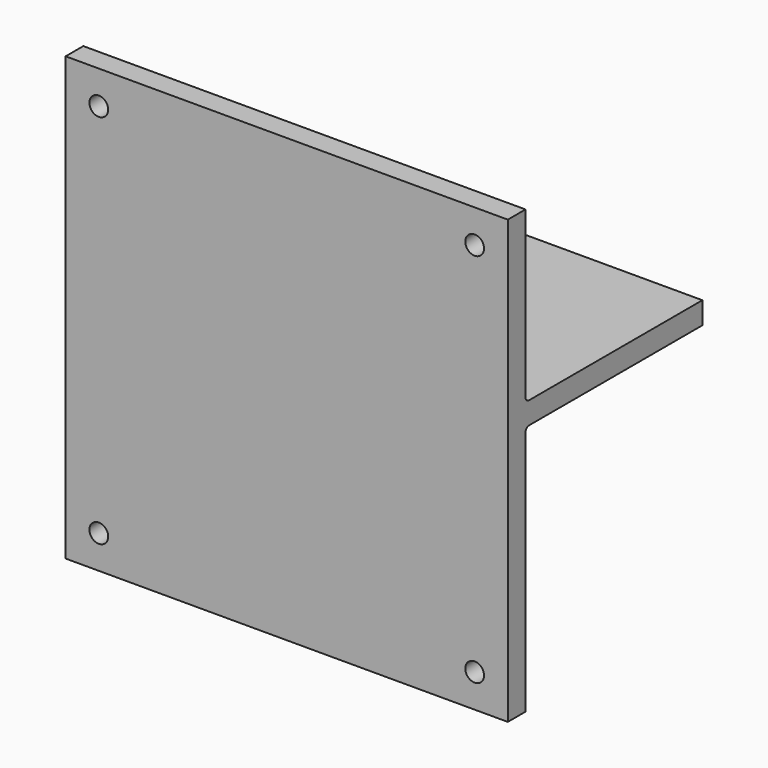
from build123d import *

# Parameters (mm, degrees)
F0_W     = 200
F0_H     = 200
F1_DEPTH = 110
F2_W     = 100
F2_H     = 76.8
F2_H_2   = 113.2
F3_DEPTH = 200
F4_W     = 10
F4_H     = 70
F5_DEPTH = 100
F7_DEPTH = 200
F8_R     = 4.25
F9_DEPTH = 10
F10_R    = 2


with BuildPart() as f1:
    # F0 (on Front) → F1 (new body)
    with BuildSketch(Plane.XZ):
        Rectangle(F0_W, F0_H)
    extrude(amount=F1_DEPTH)

    # F2 (on face) → F3 (cut)
    with BuildSketch(Plane.YZ.offset(100)):
        with Locations((-50, 61.6)):
            Rectangle(F2_W, F2_H)
        with Locations((-50, -43.4)):
            Rectangle(F2_W, F2_H_2)
    extrude(amount=-F3_DEPTH, mode=Mode.SUBTRACT)

    # F4 (on face) → F5 (join)
    with BuildSketch(Plane(origin=(0, -100, 0), x_dir=(-1, 0, 0), z_dir=(0, 1, 0))):
        with Locations((0, -21.8)):
            Rectangle(F4_W, F4_H)
    extrude(amount=F5_DEPTH)

    # F6 (on face) → F7 (cut)
    with BuildSketch(Plane.YZ.offset(5)):
        Polygon((0, 13.2), (-30, 13.2), (-100, -56.8), (0, -56.8), align=None)
    extrude(amount=-F7_DEPTH, mode=Mode.SUBTRACT)

    # F8 (on face) → F9 (cut)
    with BuildSketch(Plane(origin=(0, -100, 0), x_dir=(-1, 0, 0), z_dir=(0, 1, 0))):
        with Locations((-85, 85)):
            Circle(F8_R)
        with Locations((85, 85)):
            Circle(F8_R)
        with Locations((85, -85)):
            Circle(F8_R)
        with Locations((-85, -85)):
            Circle(F8_R)
    extrude(amount=-F9_DEPTH, mode=Mode.SUBTRACT)

    # F10
    f10_edges = [f1.edges().sort_by_distance(p)[0] for p in [
        (0, -100, 23.2),
        (52.5, -100, 13.2),
        (5, -100, -21.8),
        (5, -65, 13.2),
        (0, -30, 13.2),
        (0, -100, -56.8),
        (-5, -65, 13.2),
        (-5, -100, -21.8),
        (-52.5, -100, 13.2),
    ]]
    fillet(f10_edges, radius=F10_R)


solid = f1.part
